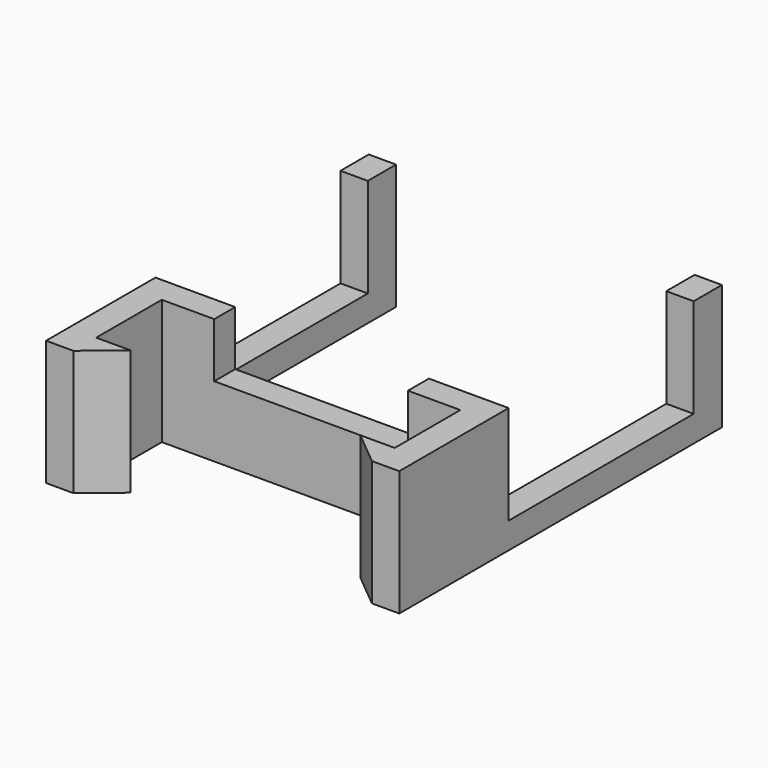
from build123d import *

# Parameters (mm, degrees)
F0_W     = 10.795
F0_H     = 2.921
F1_DEPTH = 7.874
F2_DEPTH = 13.97
F0_W_2   = 3.048
F0_H_2   = 25.781
F3_DEPTH = 2.921
F0_H_3   = 3.937
F4_DEPTH = 13.97


with BuildPart() as f1:
    # F0 (on Top) → F1 (new body)
    with BuildSketch(Plane.XY):
        with Locations((-25.0825, 1.4605)):
            Rectangle(F0_W, F0_H)
        with Locations((-14.2875, 1.4605)):
            Rectangle(F0_W, F0_H)
    extrude(amount=F1_DEPTH)

    # F0 (on Top) → F2 (join)
    with BuildSketch(Plane.XY):
        Polygon((0, 2.921), (-3.048, 2.921), (-8.89, 2.921), (-8.89, 0), (-3.048, 0), (-3.048, -9.144), (-6.880294, -9.144), (-3.048, -12.319), (0, -12.319), (0, -9.144), align=None)
        Polygon((-30.48, 0), (-30.48, 2.921), (-36.322, 2.921), (-39.37, 2.921), (-39.37, -9.144), (-39.37, -12.319), (-36.322, -12.319), (-32.489706, -9.144), (-36.322, -9.144), (-36.322, 0), align=None)
    extrude(amount=F2_DEPTH)

    # F0 (on Top) → F3 (join)
    with BuildSketch(Plane.XY):
        with Locations((-1.524, 15.8115)):
            Rectangle(F0_W_2, F0_H_2)
        with Locations((-37.846, 15.8115)):
            Rectangle(F0_W_2, F0_H_2)
    extrude(amount=F3_DEPTH)

    # F0 (on Top) → F4 (join)
    with BuildSketch(Plane.XY):
        with Locations((-1.524, 30.6705)):
            Rectangle(F0_W_2, F0_H_3)
        with Locations((-37.846, 30.6705)):
            Rectangle(F0_W_2, F0_H_3)
    extrude(amount=F4_DEPTH)


solid = f1.part
